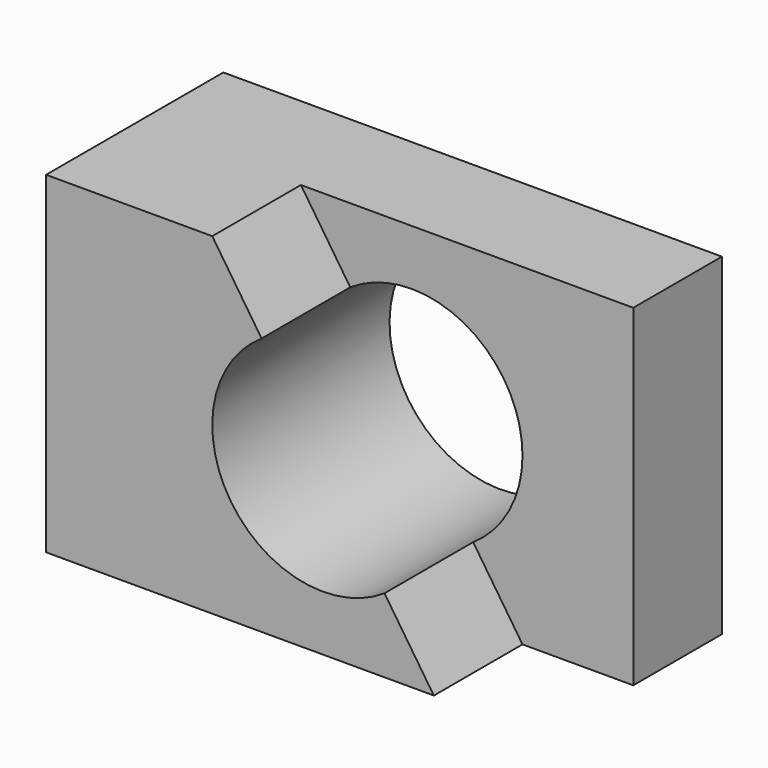
from build123d import *

# Parameters (mm, degrees)
F0_W     = 57.15
F0_H     = 38.1
F1_DEPTH = 25.4
F2_W     = 12.7
F2_H     = 12.7
F3_DEPTH = 38.101
F5_DEPTH = 12.7
F7_DEPTH = 25.401


with BuildPart() as f1:
    # F0 (on Front) → F1 (new body)
    with BuildSketch(Plane.XZ):
        with Locations((0.037352, 19.05)):
            Rectangle(F0_W, F0_H)
    extrude(amount=F1_DEPTH)

    # F2 (on face) → F3 (cut, through all)
    with BuildSketch(Plane.XY.offset(38.1)):
        with Locations((22.262352, -19.05)):
            Rectangle(F2_W, F2_H)
    extrude(amount=-F3_DEPTH, mode=Mode.SUBTRACT)

    # F4 (on face) → F5 (cut)
    with BuildSketch(Plane.XZ.offset(25.4)):
        Polygon((15.912352, 38.1), (-9.487648, 38.1), (15.912352, 0), align=None)
    extrude(amount=-F5_DEPTH, mode=Mode.SUBTRACT)

    # F6 (on face) → F7 (cut, through all)
    with BuildSketch(Plane.XZ.offset(25.4)):
        with BuildLine():
            Line((10.257044, 8.482961), (-3.832341, 29.617039))
            ThreePointArc((-3.832341, 29.617039), (-7.354687, 12.005308), (10.257044, 8.482961))
        make_face()
        with BuildLine():
            ThreePointArc((10.257044, 8.482961), (14.409619, 13.057404), (15.912352, 19.05))
            ThreePointArc((15.912352, 19.05), (9.204947, 30.247267), (-3.832341, 29.617039))
            Line((-3.832341, 29.617039), (10.257044, 8.482961))
        make_face()
    extrude(amount=-F7_DEPTH, mode=Mode.SUBTRACT)


solid = f1.part
